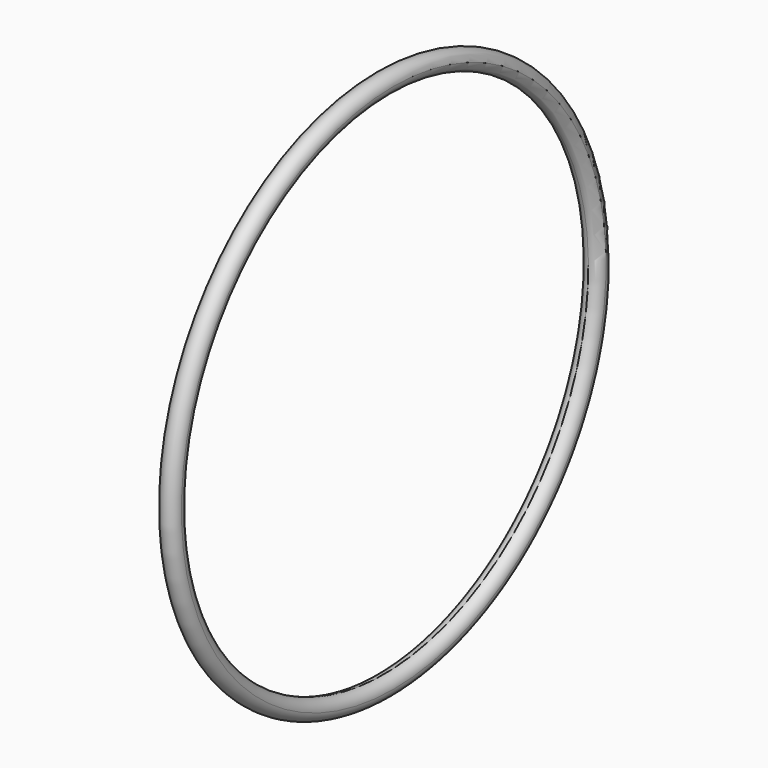
from build123d import *


with BuildPart() as f1:
    # F0 (on Front) → F1 (revolve)
    with BuildSketch(Plane.XZ):
        with BuildLine():
            ThreePointArc((0, -11.5), (8.131728, -8.131728), (11.5, 0))
            ThreePointArc((11.5, 0), (-8.131728, 8.131728), (0, -11.5))
        make_face()
    revolve(axis=Axis((18.498331, 0, -311), (1, 0, 0)))


solid = f1.part
